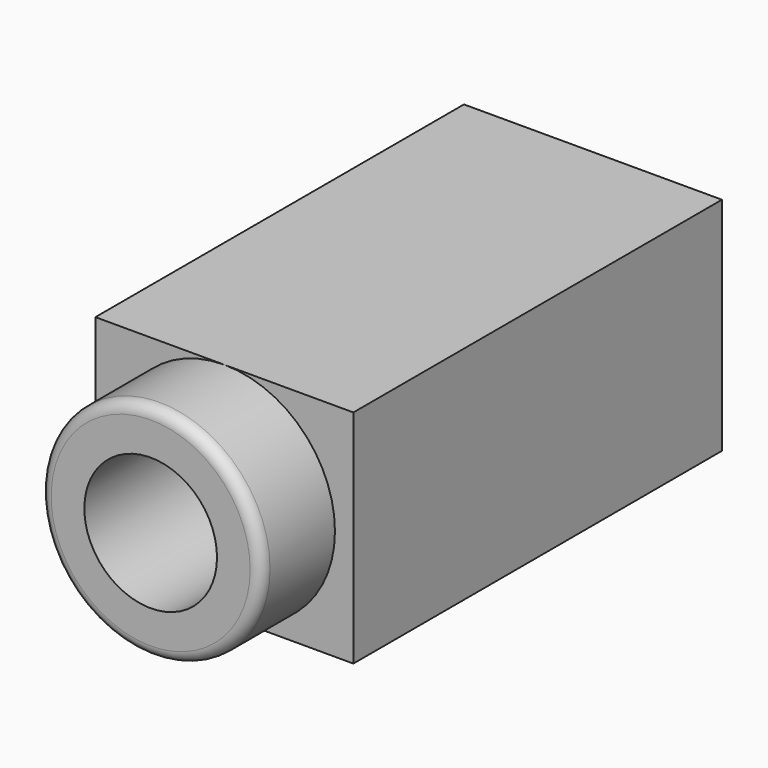
from build123d import *

# Parameters (mm, degrees)
CYLINDER002_R     = 1.8
CYLINDER002_DEPTH = 12
CYLINDER001_R     = 3
CYLINDER001_DEPTH = 2.5
BOX054_W          = 7
BOX054_H          = 12.5
BOX054_DEPTH      = 6
FILLET016_R       = 0.3


with BuildPart() as cylinder002:
    # Cylinder002 → Cylinder002 (new body)
    with BuildSketch(Plane(origin=(0, 9.5, 3), x_dir=(1, 0, 0), z_dir=(0, -1, 0))):
        Circle(CYLINDER002_R)
    extrude(amount=CYLINDER002_DEPTH)


with BuildPart() as cylinder:
    # Cylinder001 → Cylinder001 (new body)
    with BuildSketch(Plane(origin=(0, 0, 3), x_dir=(1, 0, 0), z_dir=(0, -1, 0))):
        Circle(CYLINDER001_R)
    extrude(amount=CYLINDER001_DEPTH)


with BuildPart() as phone_socket_audio_video:
    # Box054 → Box054 (new body)
    with BuildSketch(Plane(origin=(-3.5, 0, 0), x_dir=(1, 0, 0), z_dir=(0, 0, 1))):
        with Locations((3.5, 6.25)):
            Rectangle(BOX054_W, BOX054_H)
    extrude(amount=BOX054_DEPTH)

    # Fusion043: union Cylinder
    add(cylinder.part)

    # Cut010: cut Cylinder002
    add(cylinder002.part, mode=Mode.SUBTRACT)

    # Fillet016
    fillet016_edges = [phone_socket_audio_video.edges().sort_by_distance(p)[0] for p in [
        (-3, -2.5, 3),
    ]]
    fillet(fillet016_edges, radius=FILLET016_R)


with BuildPart() as phone_socket_audio_video_1:
    # Fillet016 placement: moved
    add(phone_socket_audio_video.part.moved(Location((54, 0, 1.5))))


solid = phone_socket_audio_video_1.part
